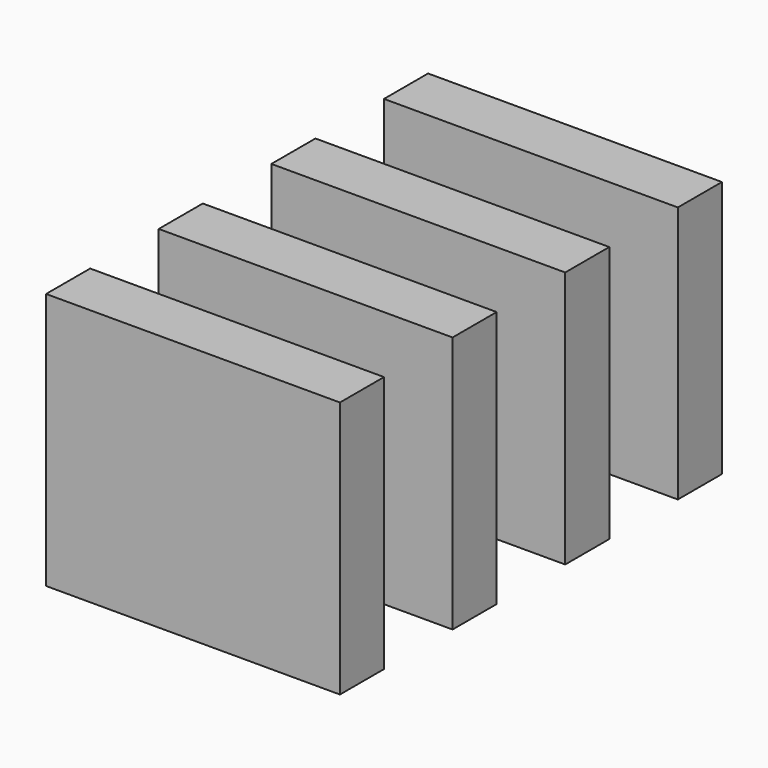
from build123d import *

# Parameters (mm, degrees)
BOX001_W     = 24
BOX001_H     = 4.5
BOX001_DEPTH = 21
BOX002_W     = 24
BOX002_H     = 4.5
BOX002_DEPTH = 21
BOX003_W     = 24
BOX003_H     = 4.5
BOX003_DEPTH = 21
BOX_W        = 24
BOX_H        = 4.5
BOX_DEPTH    = 21


with BuildPart() as cube001:
    # Box001 → Box001 (new body)
    with BuildSketch(Plane(origin=(13.5, 27.5, 0), x_dir=(1, 0, 0), z_dir=(0, 0, 1))):
        with Locations((12, 2.25)):
            Rectangle(BOX001_W, BOX001_H)
    extrude(amount=BOX001_DEPTH)


with BuildPart() as cube002:
    # Box002 → Box002 (new body)
    with BuildSketch(Plane(origin=(13.5, 39, 0), x_dir=(1, 0, 0), z_dir=(0, 0, 1))):
        with Locations((12, 2.25)):
            Rectangle(BOX002_W, BOX002_H)
    extrude(amount=BOX002_DEPTH)


with BuildPart() as cube003:
    # Box003 → Box003 (new body)
    with BuildSketch(Plane(origin=(13.5, 50.5, 0), x_dir=(1, 0, 0), z_dir=(0, 0, 1))):
        with Locations((12, 2.25)):
            Rectangle(BOX003_W, BOX003_H)
    extrude(amount=BOX003_DEPTH)


with BuildPart() as relay:
    # Box → Box (new body)
    with BuildSketch(Plane(origin=(13.5, 16, 0), x_dir=(1, 0, 0), z_dir=(0, 0, 1))):
        with Locations((12, 2.25)):
            Rectangle(BOX_W, BOX_H)
    extrude(amount=BOX_DEPTH)

    # Fusion: union Cube001, Cube002, Cube003
    add(cube001.part)
    add(cube002.part)
    add(cube003.part)


solid = relay.part
